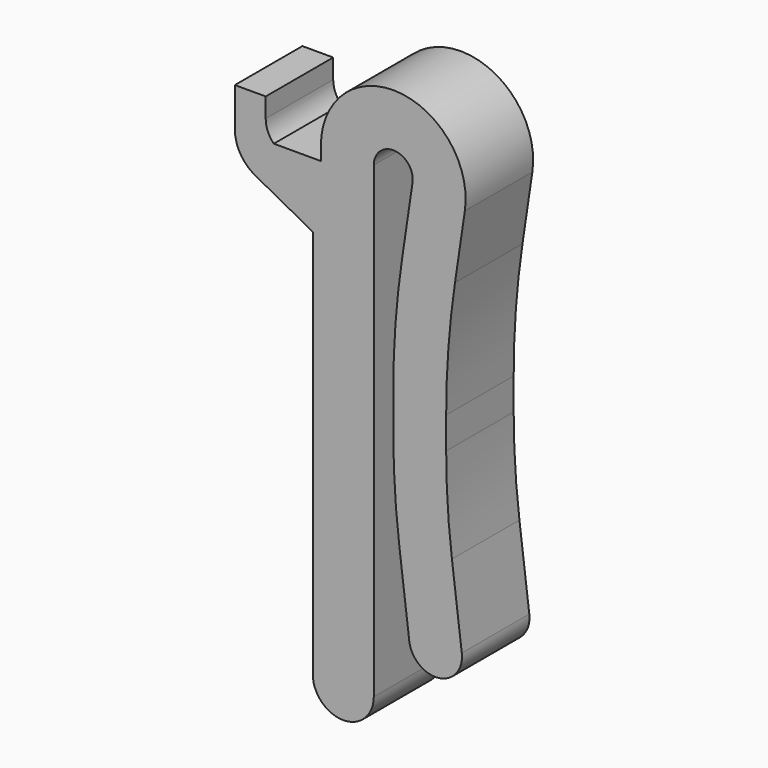
from build123d import *

# Parameters (mm, degrees)
F1_DEPTH = 3.302


with BuildPart() as f1:
    # F0 (on Front) → F1 (new body)
    with BuildSketch(Plane.XZ):
        with BuildLine():
            Line((-1.1938, 18.9738), (-2.7178, 18.9738))
            ThreePointArc((-2.7178, 18.9738), (-2.95275, 19.32305), (-3.0353, 19.7358))
            Line((-3.0353, 19.7358), (-3.0353, 20.4978))
            Line((-3.0353, 20.4978), (-4.2418, 20.4978))
            Line((-4.2418, 20.4978), (-4.2418, 18.9738))
            ThreePointArc((-4.2418, 18.9738), (-4.027637, 18.19849), (-3.445879, 17.643037))
            Line((-3.445879, 17.643037), (-1.1938, 16.4338))
            Line((-1.1938, 16.4338), (-1.1938, 1.1938))
            ThreePointArc((-1.1938, 1.1938), (0, 0), (1.1938, 1.1938))
            Line((1.1938, 1.1938), (1.1938, 19.5072))
            ThreePointArc((1.1938, 19.5072), (2.011944, 20.267129), (2.709527, 19.395217))
            Line((2.709527, 19.395217), (2.300525, 16.642347))
            ThreePointArc((2.300525, 16.642347), (2.042099, 14.315723), (1.9558, 11.976382))
            Line((1.9558, 11.976382), (1.9558, 10.582195))
            ThreePointArc((1.9558, 10.582195), (2.016106, 8.626227), (2.196796, 6.67769))
            Line((2.196796, 6.67769), (2.58224, 3.567194))
            ThreePointArc((2.58224, 3.567194), (3.73672, 2.667287), (4.636627, 3.821767))
            Line((4.636627, 3.821767), (4.251183, 6.932264))
            ThreePointArc((4.251183, 6.932264), (4.082274, 8.753757), (4.0259, 10.582195))
            Line((4.0259, 10.582195), (4.0259, 11.823441))
            ThreePointArc((4.0259, 11.823441), (4.112199, 14.162782), (4.370625, 16.489406))
            Line((4.370625, 16.489406), (4.75715, 19.090996))
            ThreePointArc((4.75715, 19.090996), (2.164469, 22.331602), (-0.8763, 19.5072))
            Line((-0.8763, 19.5072), (-0.8763, 18.9738))
            Line((-0.8763, 18.9738), (-1.1938, 18.9738))
        make_face()
    extrude(amount=F1_DEPTH)


solid = f1.part
